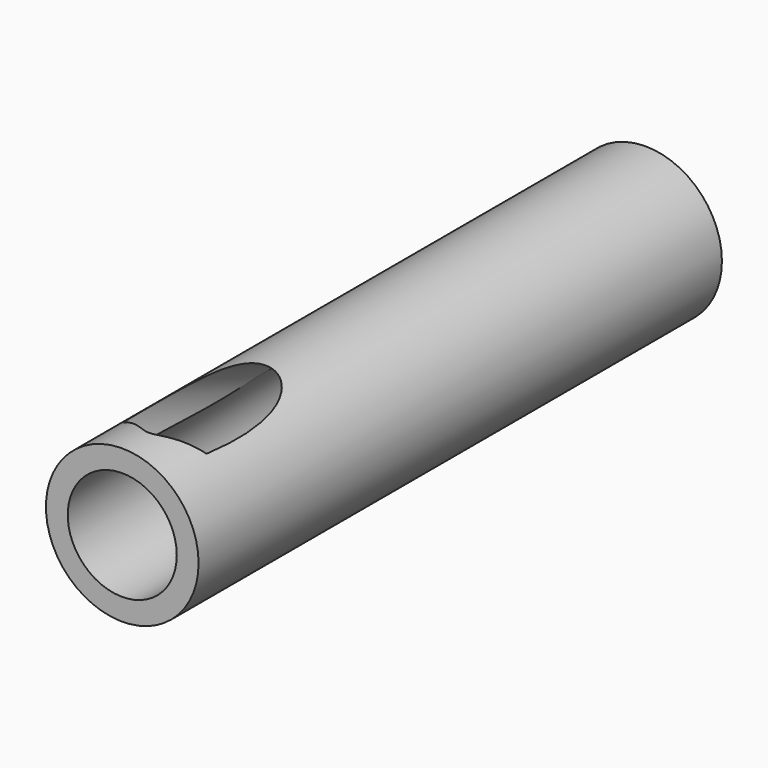
from build123d import *

# Parameters (mm, degrees)
F5_D     = 20
F5_DEPTH = 50
F5_TIP   = 6.0086061903


with BuildPart() as f1:
    # F0 (on Top) → F1 (revolve)
    with BuildSketch(Plane.XY):
        Polygon((12.5, 129.8480927944), (12.5, 0), (17.5, 0), (17.5, 60), (17.5, 150), (14.5, 129.8480927944), align=None)
    revolve(axis=Axis((0, 75, 0), (0, 1, 0)))

    # F5 (one way)
    with BuildSketch(Plane(origin=(0, 52.9813332936, -19.2836282906), x_dir=(-1, 0, 0), z_dir=(0, 0.9396926208, -0.3420201433))):
        with Locations((0, 20.5212085995)):
            Circle(F5_D / 2)
    extrude(amount=-F5_DEPTH, mode=Mode.SUBTRACT)
    with Locations(Plane(origin=(0, 52.9813332936, -19.2836282906), x_dir=(-1, 0, 0), z_dir=(0, 0.9396926208, -0.3420201433))):
        with Locations((0, 20.5212085995)):
            with Locations((0, 0, -(F5_DEPTH + F5_TIP / 2))):  # 118° drill point
                Cone(0, F5_D / 2, F5_TIP, mode=Mode.SUBTRACT)


solid = f1.part
